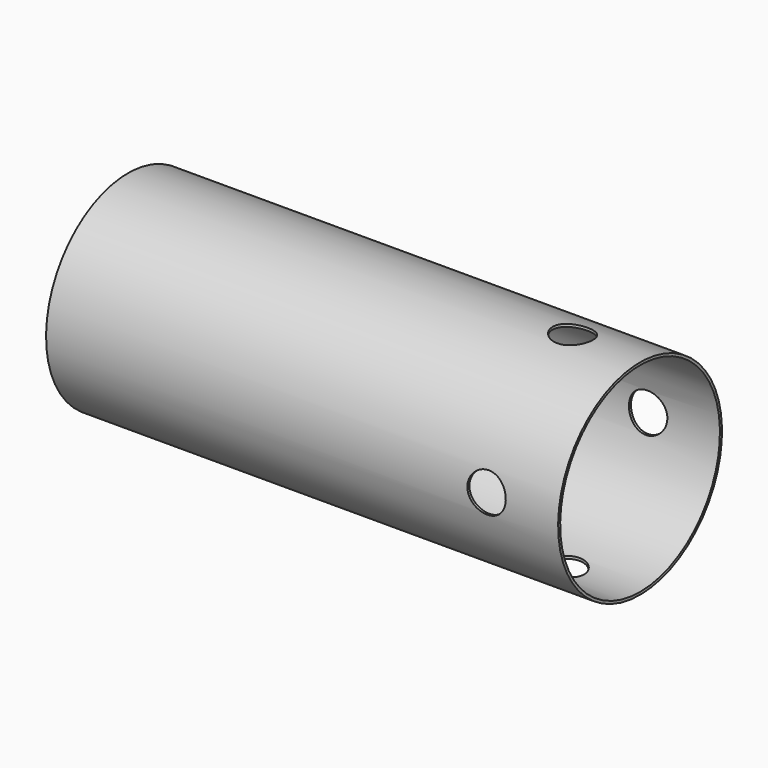
from build123d import *

# Parameters (mm, degrees)
SKETCH014_R             = 8
PAD006_DEPTH            = 40
SKETCH015_R             = 1.5
POCKET008_DEPTH         = 11
POLARPATTERN002_COUNT   = 4
SKETCH016_R             = 7.8
POCKET009_DEPTH         = 40.001
BODY004_PLACEMENT_ANGLE = 87


with BuildPart() as part:
    # Sketch014 → Pad006 (new body)
    with BuildSketch(Plane.YZ.offset(10)):
        Circle(SKETCH014_R)
    extrude(amount=-PAD006_DEPTH)

    # Sketch015 → Pocket008 (cut)
    with BuildSketch(Plane.XY):
        with Locations((4.4, 0)):
            Circle(SKETCH015_R)
    pocket008 = extrude(amount=POCKET008_DEPTH, mode=Mode.SUBTRACT)

    # PolarPattern002: Pocket008 ×4 about axis
    polarpattern002_axis = Axis((0, 0, 0), (1, 0, 0))
    for i in range(1, POLARPATTERN002_COUNT):
        add(pocket008.rotate(polarpattern002_axis, i * 360 / POLARPATTERN002_COUNT), mode=Mode.SUBTRACT)

    # Sketch016 (on Face3 of Pad006) → Pocket009 (cut, through all)
    with BuildSketch(Plane(origin=(-30, 0, 0), x_dir=(0, 1, 0), z_dir=(-1, 0, 0))):
        Circle(SKETCH016_R)
    extrude(amount=-POCKET009_DEPTH, mode=Mode.SUBTRACT)


with BuildPart() as part_1:
    # Body004 placement: moved
    add(part.part.moved(Location((2, 0, 0))).rotate(Axis((2, 0, 0), (1, 0, 0)), BODY004_PLACEMENT_ANGLE))


solid = part_1.part
